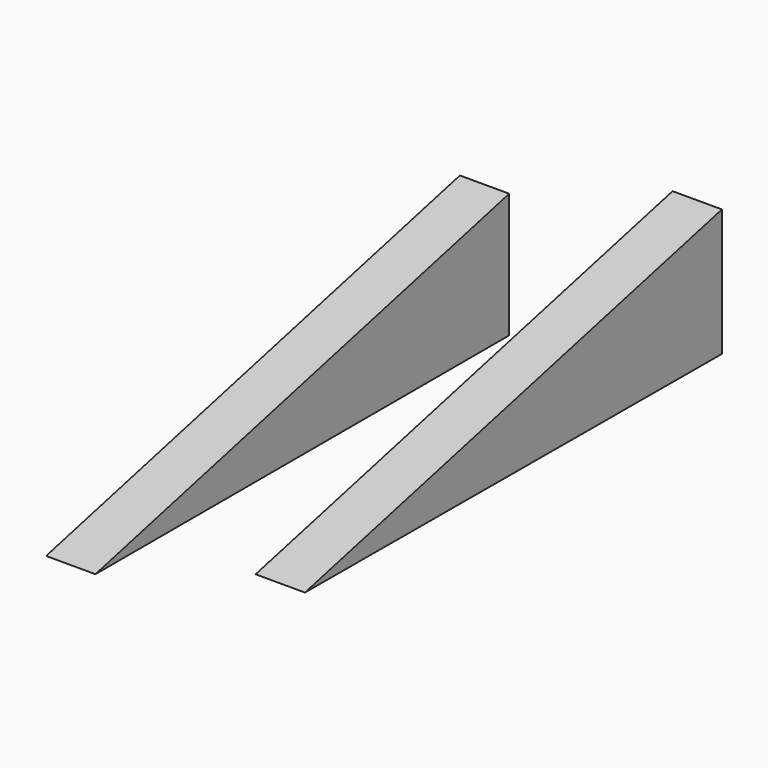
from build123d import *

# Parameters (mm, degrees)
F3_DEPTH = 14.478


with BuildPart() as f3:
    # F2 (on offset) → F3 (new body)
    with BuildSketch(Plane.YZ.offset(56.642)):
        Polygon((82.658521831, 48.0265729129), (-70.2127218246, 11.2437400967), (82.658521831, 10.7124280185), align=None)
    extrude(amount=F3_DEPTH)


with BuildPart() as f3b:
    # F0 (on Right) → F3, piece 2 (new body)
    with BuildSketch(Plane.YZ):
        Polygon((75.4834413528, 36.5794971585), (-76.2174800038, 0), (75.4834413528, 0), align=None)
    extrude(amount=F3_DEPTH)


solid = Compound([f3.part, f3b.part])
